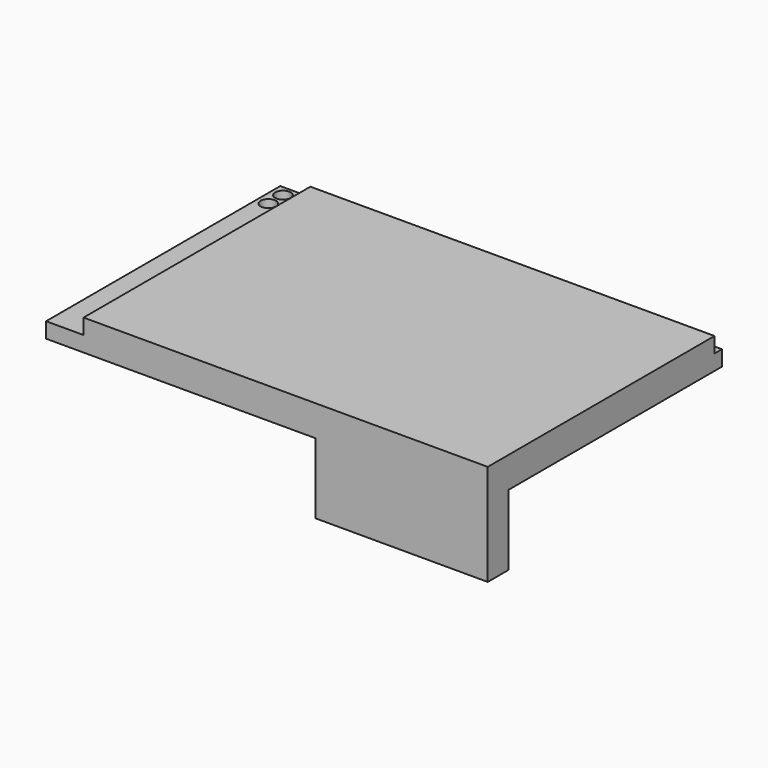
from build123d import *

# Parameters (mm, degrees)
F0_W     = 86
F0_H     = 57
F1_DEPTH = 3
F2_W     = 78.7
F2_H     = 55.2
F3_DEPTH = 3
F4_R     = 1.5
F5_DEPTH = 25
F6_W     = 33.5
F6_H     = 5
F7_DEPTH = 13.73


with BuildPart() as f1:
    # F0 (on Top) → F1 (new body)
    with BuildSketch(Plane.XY):
        Rectangle(F0_W, F0_H)
    extrude(amount=F1_DEPTH)

    # F2 (on face) → F3 (join)
    with BuildSketch(Plane.XY.offset(3)):
        with Locations((3.65, -0.9)):
            Rectangle(F2_W, F2_H)
    extrude(amount=F3_DEPTH)

    # F4 (on face) → F5 (cut)
    with BuildSketch(Plane.XY.offset(3)):
        with Locations((-40.812388, 26.41947)):
            Circle(F4_R)
        with Locations((-40.812388, 22.852236)):
            Circle(F4_R)
    extrude(amount=-F5_DEPTH, mode=Mode.SUBTRACT)

    # F6 (on face) → F7 (join)
    with BuildSketch(Plane(origin=(0, 0, 0), x_dir=(1, 0, 0), z_dir=(0, 0, -1))):
        with Locations((26.25, 26)):
            Rectangle(F6_W, F6_H)
    extrude(amount=F7_DEPTH)


solid = f1.part
